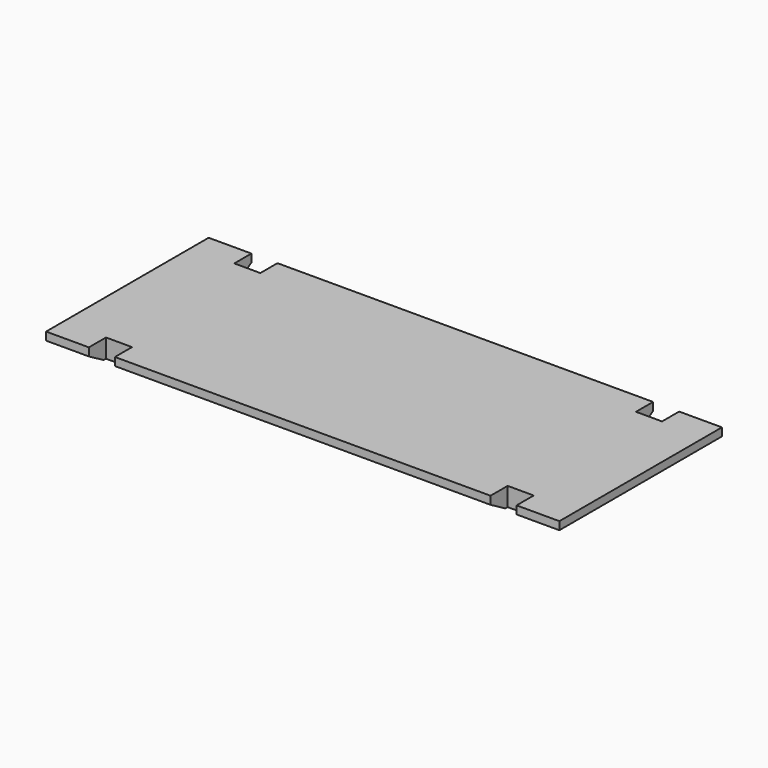
from build123d import *

# Parameters (mm, degrees)
F0_W     = 61.9125
F0_H     = 12.7
F1_DEPTH = 44.45
F2_SIZE2 = 43.9940905122
F2_SIZE  = 25.4


with BuildPart() as f1:
    # F0 (on Top) → F1 (new body)
    with BuildSketch(Plane.XY):
        Polygon((-516.6045189857, 257.2103405952), (-618.2045189857, 257.2103405952), (-618.2045189857, 15.9103405952), (-516.6045189857, 15.9103405952), (-516.6045189857, 193.7103405952), (-516.6045189857, 206.4103405952), (-516.6045189857, 244.5103405952), align=None)
        Polygon((-516.6045189857, 15.9103405952), (-618.2045189857, 15.9103405952), (-618.2045189857, -225.3896594048), (-516.6045189857, -225.3896594048), (-516.6045189857, -212.6896594048), (-516.6045189857, -174.5896594048), (-516.6045189857, -161.8896594048), align=None)
        Polygon((-4.3022594929, 15.9103405952), (-516.6045189857, 15.9103405952), (-516.6045189857, -161.8896594048), (-454.6920189857, -161.8896594048), (-454.6920189857, -174.5896594048), (-454.6920189857, -212.6896594048), (-454.6920189857, -225.3896594048), (0, -225.3896594048), align=None)
        Polygon((-8.6045189857, 257.2103405952), (-454.6920189857, 257.2103405952), (-454.6920189857, 244.5103405952), (-454.6920189857, 206.4103405952), (-454.6920189857, 193.7103405952), (-516.6045189857, 193.7103405952), (-516.6045189857, 15.9103405952), (-4.3022594929, 15.9103405952), align=None)
        Polygon((499.3954810143, 15.9103405952), (-4.3022594929, 15.9103405952), (0, -225.3896594048), (437.4829810143, -225.3896594048), (437.4829810143, -212.6896594048), (437.4829810143, -174.5896594048), (437.4829810143, -161.8896594048), (499.3954810143, -161.8896594048), align=None)
        Polygon((437.4829810143, 257.2103405952), (-8.6045189857, 257.2103405952), (-4.3022594929, 15.9103405952), (499.3954810143, 15.9103405952), (499.3954810143, 193.7103405952), (437.4829810143, 193.7103405952), (437.4829810143, 206.4103405952), (437.4829810143, 244.5103405952), align=None)
        Polygon((499.3954810143, 193.7103405952), (499.3954810143, 15.9103405952), (600.9954810143, 15.9103405952), (600.9954810143, 257.2103405952), (499.3954810143, 257.2103405952), (499.3954810143, 244.5103405952), (499.3954810143, 206.4103405952), align=None)
        Polygon((600.9954810143, 15.9103405952), (499.3954810143, 15.9103405952), (499.3954810143, -161.8896594048), (499.3954810143, -174.5896594048), (499.3954810143, -212.6896594048), (499.3954810143, -225.3896594048), (600.9954810143, -225.3896594048), align=None)
        with Locations((468.4392310143, -168.2396594048)):
            Rectangle(F0_W, F0_H)
        with Locations((468.4392310143, 200.0603405952)):
            Rectangle(F0_W, F0_H)
        with Locations((-485.6482689857, 200.0603405952)):
            Rectangle(F0_W, F0_H)
        with Locations((-485.6482689857, -168.2396594048)):
            Rectangle(F0_W, F0_H)
    extrude(amount=F1_DEPTH)

    # F2
    f2_edges = [f1.edges().sort_by_distance(p)[0] for p in [
        (-618.204519, 15.910341, 0),
        (-567.404519, -225.389659, 0),
        (-8.604519, -225.389659, 0),
        (550.195481, -225.389659, 0),
        (600.995481, 15.910341, 0),
        (550.195481, 257.210341, 0),
        (-8.604519, 257.210341, 0),
        (-567.404519, 257.210341, 0),
    ]]
    chamfer(f2_edges, length=F2_SIZE, length2=F2_SIZE2)


solid = f1.part
